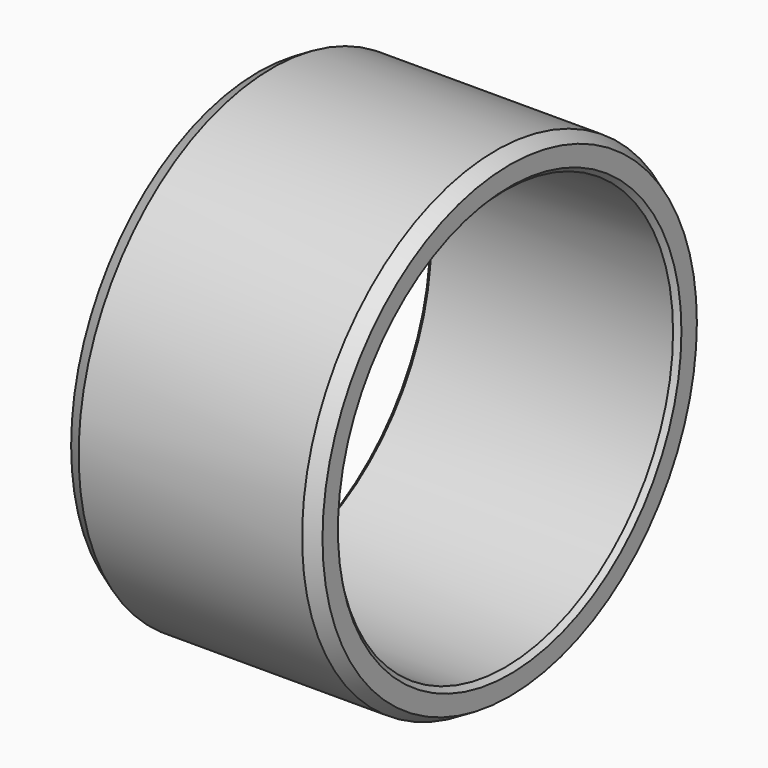
from build123d import *

# Parameters (mm, degrees)
F0_R     = 52
F0_R_2   = 45.125
F1_DEPTH = 27
F2_SIZE  = 1
F3_SIZE2 = 1.7320508076
F3_SIZE  = 3


with BuildPart() as f1:
    # F0 (on Right) → F1 (new body, symmetric)
    with BuildSketch(Plane.YZ):
        Circle(F0_R)
        Circle(F0_R_2, mode=Mode.SUBTRACT)
    extrude(amount=F1_DEPTH, both=True)

    # F2
    f2_edges = [f1.edges().sort_by_distance(p)[0] for p in [
        (27, -45.125, 0),
        (-27, -45.125, 0),
    ]]
    chamfer(f2_edges, length=F2_SIZE)

    # F3
    f3_edges = [f1.edges().sort_by_distance(p)[0] for p in [
        (-27, -52, 0),
        (27, -52, 0),
    ]]
    f3_side = f1.faces().sort_by_distance((0, -52, 0))[0]
    chamfer(f3_edges, length=F3_SIZE, length2=F3_SIZE2, reference=f3_side)


solid = f1.part
